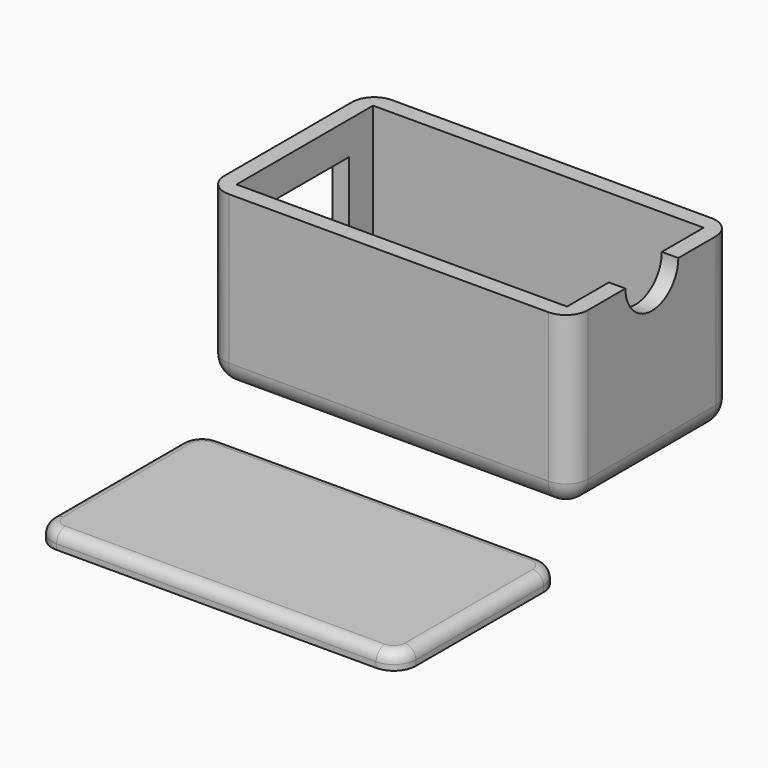
from build123d import *

# Parameters (mm, degrees)
F0_W      = 30
F0_H      = 15.5
F1_DEPTH  = 15.5
F0_R      = 2.1
F2_DEPTH  = 1.5
F3_W      = 10
F3_H      = 6
F4_DEPTH  = 2
F6_DEPTH  = 1.5
F7_R      = 1
F8_R      = 2
F10_DEPTH = 2


with BuildPart() as f1:
    # F0 (on Top) → F1 (new body)
    with BuildSketch(Plane.XY):
        with BuildLine():
            Line((-26.3555888087, -1.3590702893), (-26.3555888087, -15.8590702893))
            ThreePointArc((-26.3555888087, -15.8590702893), (-25.769802371, -17.2732838517), (-24.3555888087, -17.8590702893))
            Line((-24.3555888087, -17.8590702893), (4.6444111913, -17.8590702893))
            ThreePointArc((4.6444111913, -17.8590702893), (6.0586247537, -17.2732838517), (6.6444111913, -15.8590702893))
            Line((6.6444111913, -15.8590702893), (6.6444111913, -1.3590702893))
            ThreePointArc((6.6444111913, -1.3590702893), (6.0586247537, 0.0551432731), (4.6444111913, 0.6409297107))
            Line((4.6444111913, 0.6409297107), (-24.3555888087, 0.6409297107))
            ThreePointArc((-24.3555888087, 0.6409297107), (-25.769802371, 0.0551432731), (-26.3555888087, -1.3590702893))
        make_face()
        with Locations((-9.8555888087, -8.6090702893)):
            Rectangle(F0_W, F0_H, mode=Mode.SUBTRACT)
    extrude(amount=F1_DEPTH)

    # F0 (on Top) → F2 (join)
    with BuildSketch(Plane.XY):
        with Locations((-9.8555888087, -8.6090702893)):
            Rectangle(F0_W, F0_H)
        with Locations((-21.8555888087, -11.0090702893)):
            Circle(F0_R, mode=Mode.SUBTRACT)
        with Locations((-21.8555888087, -6.2090702893)):
            Circle(F0_R, mode=Mode.SUBTRACT)
    extrude(amount=F2_DEPTH)

    # F3 (on face) → F4 (cut)
    with BuildSketch(Plane(origin=(-26.3555888087, 0, 0), x_dir=(0, -1, 0), z_dir=(-1, 0, 0))):
        with Locations((8.6090702893, 9.5)):
            Rectangle(F3_W, F3_H)
    extrude(amount=-F4_DEPTH, mode=Mode.SUBTRACT)

    # F8
    f8_edges = [f1.edges().sort_by_distance(p)[0] for p in [
        (-26.355589, -8.60907, 0),
        (-9.855589, 0.64093, 0),
        (6.644411, -8.60907, 0),
        (-9.855589, -17.85907, 0),
        (6.058625, -17.273284, 0),
        (6.058625, 0.055143, 0),
        (-25.769802, 0.055143, 0),
        (-25.769802, -17.273284, 0),
    ]]
    fillet(f8_edges, radius=F8_R)

    # F9 (on face) → F10 (cut)
    with BuildSketch(Plane.YZ.offset(6.6444111913)):
        with BuildLine():
            ThreePointArc((-11.6090702893, 15.5), (-8.6090702893, 12.5), (-5.6090702893, 15.5))
            Line((-5.6090702893, 15.5), (-11.6090702893, 15.5))
        make_face()
    extrude(amount=-F10_DEPTH, mode=Mode.SUBTRACT)


with BuildPart() as f6:
    # F5 (on Top) → F6 (new body)
    with BuildSketch(Plane.XY):
        with BuildLine():
            Line((10.6348033845, -26.3732144807), (-18.3651966155, -26.3732144807))
            ThreePointArc((-18.3651966155, -26.3732144807), (-19.7794101778, -26.9590009183), (-20.3651966155, -28.3732144807))
            Line((-20.3651966155, -28.3732144807), (-20.3651966155, -42.8732144807))
            ThreePointArc((-20.3651966155, -42.8732144807), (-19.7794101778, -44.2874280431), (-18.3651966155, -44.8732144807))
            Line((-18.3651966155, -44.8732144807), (10.6348033845, -44.8732144807))
            ThreePointArc((10.6348033845, -44.8732144807), (12.0490169469, -44.2874280431), (12.6348033845, -42.8732144807))
            Line((12.6348033845, -42.8732144807), (12.6348033845, -28.3732144807))
            ThreePointArc((12.6348033845, -28.3732144807), (12.0490169469, -26.9590009183), (10.6348033845, -26.3732144807))
        make_face()
    extrude(amount=F6_DEPTH)

    # F7
    f7_edges = [f6.edges().sort_by_distance(p)[0] for p in [
        (-3.865197, -44.873214, 1.5),
    ]]
    fillet(f7_edges, radius=F7_R)


solid = Compound([f1.part, f6.part])
